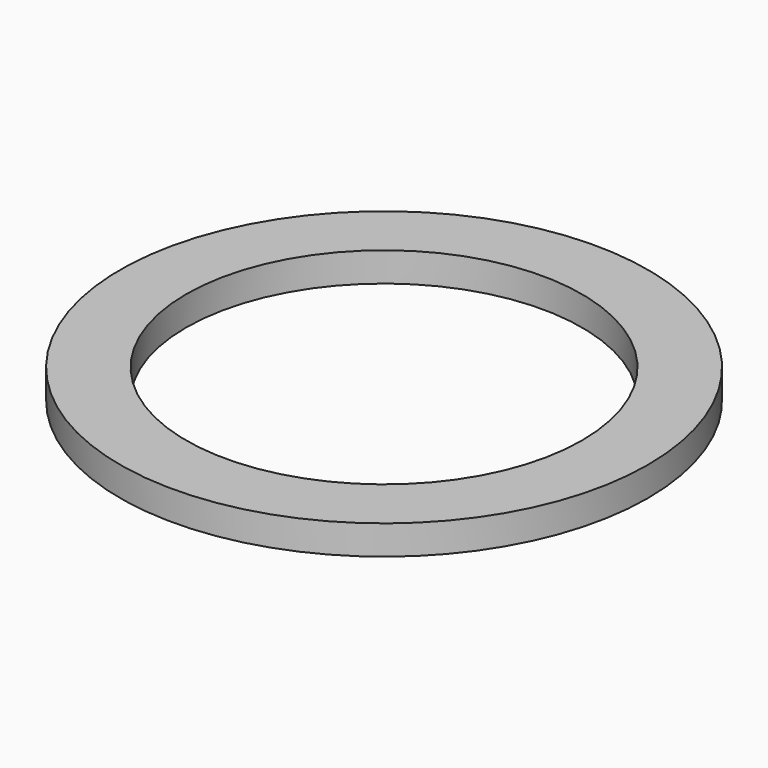
from build123d import *

# Parameters (mm, degrees)
CYLINDER002_R       = 13.5
CYLINDER002_DEPTH   = 2
CYLINDER001_R       = 18
CYLINDER001_DEPTH   = 2
CUT_PLACEMENT_ANGLE = 180


with BuildPart() as cylinder002:
    # Cylinder002 → Cylinder002 (new body)
    with BuildSketch(Plane.XY):
        Circle(CYLINDER002_R)
    extrude(amount=CYLINDER002_DEPTH)


with BuildPart() as base:
    # Cylinder001 → Cylinder001 (new body)
    with BuildSketch(Plane.XY):
        Circle(CYLINDER001_R)
    extrude(amount=CYLINDER001_DEPTH)

    # Cut: cut Cylinder002
    add(cylinder002.part, mode=Mode.SUBTRACT)


with BuildPart() as base_1:
    # Cut placement: moved
    add(base.part.moved(Location((0, 0, 2))).rotate(Axis((0, 0, 2), (1, 0, 0)), CUT_PLACEMENT_ANGLE))


solid = base_1.part
